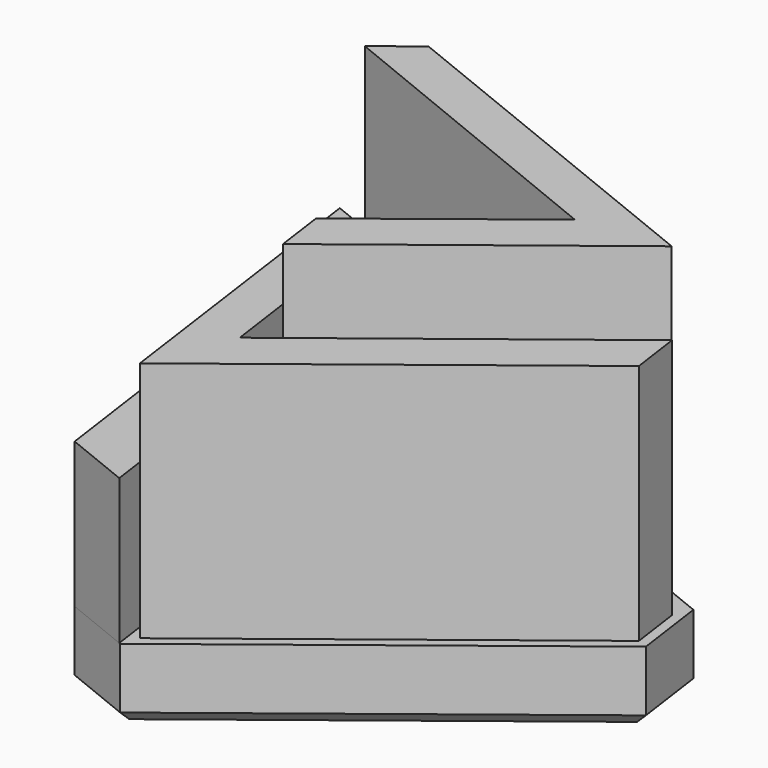
from build123d import *

# Parameters (mm, degrees)
F1_DEPTH = 30
F5_DEPTH = 60
F6_DEPTH = 100
F7_DEPTH = 130
F8_SIZE  = 5


with BuildPart() as f1:
    # F0 (on Top) → F1 (new body)
    with BuildSketch(Plane.XY):
        Polygon((-39.487894, -75.850017), (94.227236, 28.575137), (90.058191, 58.284042), (-67.23421, 121.872165), (-90.878354, 103.407213), (-67.301084, -64.606063), align=None)
    extrude(amount=F1_DEPTH)

    # F2 (on face) → F5 (join)
    with BuildSketch(Plane.XY.offset(30)):
        Polygon((14.600857, 32.81471), (37.999574, 51.148787), (-90.714814, 103.534931), (-90.878354, 103.407213), (-67.301084, -64.606063), (-40.06353, -75.617306), (-59.289651, 62.461207), (-30.906815, 51.073389), align=None)
    extrude(amount=F5_DEPTH)

    # F4 (on face) → F6 (join)
    with BuildSketch(Plane.XY.offset(30)):
        Polygon((87.029812, 51.080902), (-23.003388, -34.692019), (-28.099764, 1.909229), (-34.548747, 48.224661), (-54.376458, 56.179975), (-36.972718, -68.81053), (89.945114, 30.306257), align=None)
    extrude(amount=F6_DEPTH)

    # F3 (on face) → F7 (join)
    with BuildSketch(Plane.XY.offset(30)):
        Polygon((17.067929, 29.66613), (-19.8587, 0.732249), (-16.991157, -19.861924), (81.935531, 57.253266), (-66.592344, 117.29818), (-82.807181, 104.635163), (45.895328, 52.253855), align=None)
    extrude(amount=F7_DEPTH)

    # F8
    f8_edges = [f1.edges().sort_by_distance(p)[0] for p in [
        (11.41199, 90.078103, 0),
        (92.142713, 43.429589, 0),
        (27.369671, -23.63744, 0),
        (-79.056282, 112.639689, 0),
        (-79.089719, 19.400575, 0),
        (-53.394489, -70.22804, 0),
    ]]
    chamfer(f8_edges, length=F8_SIZE)


solid = f1.part
